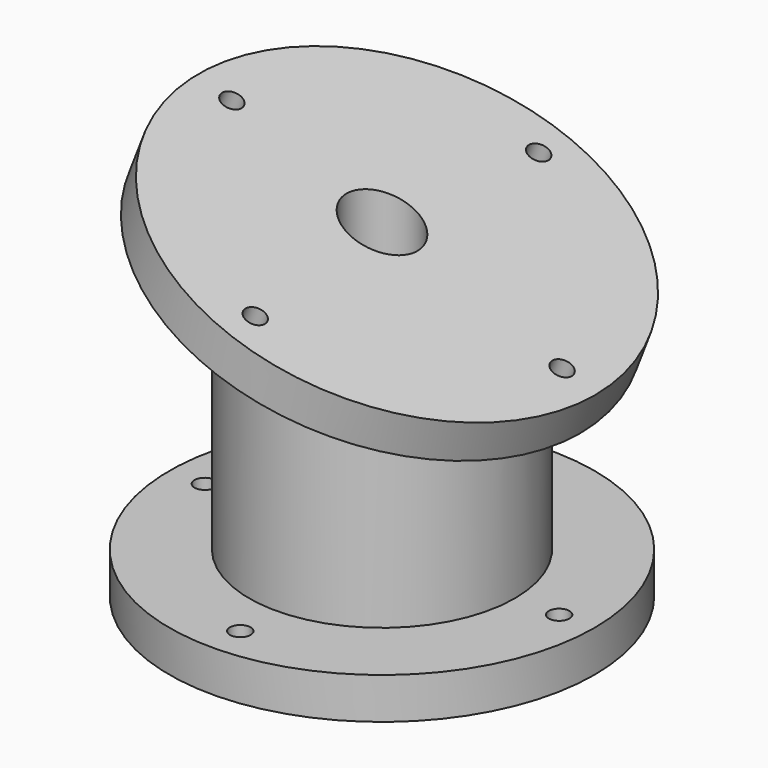
from build123d import *

# Parameters (mm, degrees)
F0_R          = 45.72
F1_DEPTH      = 8.89
F2_R          = 28.575
F3_DEPTH      = 63.5
F5_DEPTH      = 45.721
F5_DEPTH_BACK = 45.721
F6_R          = 45.72
F7_DEPTH      = 8.89
F8_R          = 7.62
F9_DEPTH      = 86.13506459
F10_R         = 2.2225
F11_DEPTH     = 8.89
F12_R         = 2.2225
F13_DEPTH     = 8.89


with BuildPart() as f1:
    # F0 (on Top) → F1 (new body)
    with BuildSketch(Plane.XY):
        Circle(F0_R)
    extrude(amount=F1_DEPTH)

    # F2 (on face) → F3 (join)
    with BuildSketch(Plane.XY.offset(8.89)):
        Circle(F2_R)
    extrude(amount=F3_DEPTH)

    # F4 (on Front) → F5 (cut, two sides)
    with BuildSketch(Plane.XZ) as f5_sk:
        Polygon((28.575, 72.39), (-28.575, 72.39), (28.575, 50.165), align=None)
    extrude(amount=-F5_DEPTH, mode=Mode.SUBTRACT)
    extrude(f5_sk.sketch, amount=F5_DEPTH_BACK, mode=Mode.SUBTRACT)

    # F6 (on face) → F7 (join)
    with BuildSketch(Plane(origin=(20.6996380697, 0, 53.2276407507), x_dir=(0.9320046715, 0, -0.3624462612), z_dir=(0.3624462612, 0, 0.9320046715))):
        with Locations((-22.2098007679, 0)):
            Circle(F6_R)
    extrude(amount=F7_DEPTH)

    # F8 (on face) → F9 (cut, through all)
    with BuildSketch(Plane(origin=(0, 0, 0), x_dir=(1, 0, 0), z_dir=(0, 0, -1))):
        Circle(F8_R)
    extrude(amount=-F9_DEPTH, mode=Mode.SUBTRACT)

    # F10 (on face) → F11 (cut, through all)
    with BuildSketch(Plane(origin=(0, 0, 0), x_dir=(1, 0, 0), z_dir=(0, 0, -1))):
        with Locations((0, -38.1)):
            Circle(F10_R)
        with Locations((38.1, 0)):
            Circle(F10_R)
        with Locations((0, 38.1)):
            Circle(F10_R)
        with Locations((-38.1, 0)):
            Circle(F10_R)
    extrude(amount=-F11_DEPTH, mode=Mode.SUBTRACT)

    # F12 (on face) → F13 (cut, through all)
    with BuildSketch(Plane(origin=(23.9217853314, 0, 61.5131622807), x_dir=(0.9320046715, 0, -0.3624462612), z_dir=(0.3624462612, 0, 0.9320046715))):
        with Locations((-22.2098007679, -38.1)):
            Circle(F12_R)
        with Locations((15.8901992321, 0)):
            Circle(F12_R)
        with Locations((-60.3098007679, 0)):
            Circle(F12_R)
        with Locations((-22.2098007679, 38.1)):
            Circle(F12_R)
    extrude(amount=-F13_DEPTH, mode=Mode.SUBTRACT)


solid = f1.part
